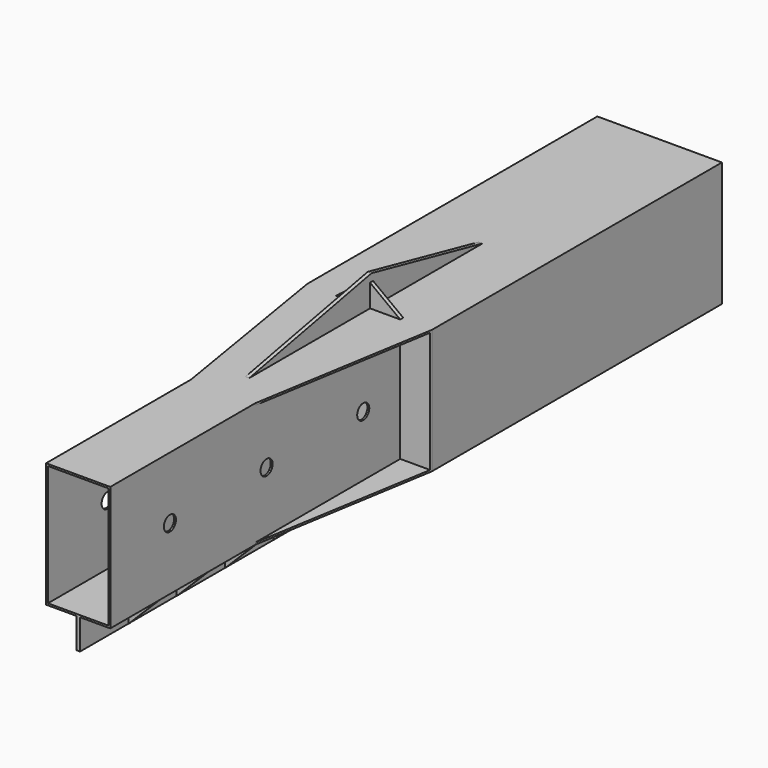
from build123d import *

# Parameters (mm, degrees)
F0_W           = 104.775
F0_H           = 104.775
F0_W_2         = 101.6
F0_H_2         = 101.6
F1_DEPTH       = 1.5875
F3_DEPTH       = 304.8
F5_DEPTH       = 304.8
F6_W           = 152.4
F6_H           = 1.5875
F7_DEPTH       = 25.4
F8_W           = 152.4
F8_H           = 1.5875
F9_DEPTH       = 25.4
F11_DEPTH      = 177.8
F12_W          = 3.175
F12_H          = 611.1875
F13_DEPTH      = 25.4
F14_R          = 6.35
F15_DEPTH      = 213.36
F16_W          = 25.4
F16_H          = 1.5875
F17_DEPTH      = 25.4
F19_DEPTH      = 1828.8
F20_W          = 1.5875
F20_H          = 245.0186535716
F21_DEPTH      = 25.4
F23_DEPTH      = 25.4
F24_W          = 1.5875
F24_H          = 19.05
F25_DEPTH      = 25.4
F25_DEPTH_BACK = 28.575
F27_DEPTH      = 25.4
F29_DEPTH      = 25.4


with BuildPart() as f1:
    # F0 (on Front) → F1 (new body)
    with BuildSketch(Plane.XZ):
        with Locations((-4.1154902428, 8.1752620383)):
            Rectangle(F0_W, F0_H)
        with Locations((-4.1154902428, 8.1752620383)):
            Rectangle(F0_W_2, F0_H_2, mode=Mode.SUBTRACT)
        with Locations((-4.1154902428, 8.1752620383)):
            Rectangle(F0_W_2, F0_H_2)
    extrude(amount=F1_DEPTH)

    # F2 (on face) → F3 (join)
    with BuildSketch(Plane(origin=(0, 0, 0), x_dir=(-1, 0, 0), z_dir=(0, 1, 0))):
        Polygon((-46.6845097572, 58.9752620383), (-48.2720097572, 60.5627620383), (-48.2720097572, -44.2122379617), (56.5029902428, -44.2122379617), (54.9154902428, -42.6247379617), (-46.6845097572, -42.6247379617), align=None)
        Polygon((56.5029902428, 60.5627620383), (-48.2720097572, 60.5627620383), (-46.6845097572, 58.9752620383), (54.9154902428, 58.9752620383), (54.9154902428, -42.6247379617), (56.5029902428, -44.2122379617), align=None)
    extrude(amount=F3_DEPTH)

    # F4 (on face) → F5 (join)
    with BuildSketch(Plane.XZ.offset(1.5875)):
        Polygon((-31.1029902428, 60.5627620383), (-31.1029902428, 35.1627620383), (-29.5154902428, 33.5752620383), (-29.5154902428, 58.9752620383), (21.2845097572, 58.9752620383), (21.2845097572, -17.2247379617), (22.8720097572, -18.8122379617), (22.8720097572, 60.5627620383), align=None)
        Polygon((-29.5154902428, 33.5752620383), (-31.1029902428, 35.1627620383), (-31.1029902428, -44.2122379617), (22.8720097572, -44.2122379617), (22.8720097572, -18.8122379617), (21.2845097572, -17.2247379617), (21.2845097572, -42.6247379617), (-29.5154902428, -42.6247379617), align=None)
    extrude(amount=F5_DEPTH)

    # F6 (on face) → F7 (join)
    with BuildSketch(Plane(origin=(-31.1029902428, 0, 0), x_dir=(0, -1, 0), z_dir=(-1, 0, 0))):
        with Locations((77.7875, 59.7690120383)):
            Rectangle(F6_W, F6_H)
        with Locations((77.7875, -43.4184879617)):
            Rectangle(F6_W, F6_H)
    extrude(amount=F7_DEPTH)

    # F8 (on face) → F9 (join)
    with BuildSketch(Plane.YZ.offset(22.8720097572)):
        with Locations((-77.7875, 59.7690120383)):
            Rectangle(F8_W, F8_H)
        with Locations((-77.7875, -43.4184879617)):
            Rectangle(F8_W, F8_H)
    extrude(amount=F9_DEPTH)

    # F10 (on face) → F11 (cut)
    with BuildSketch(Plane.XY.offset(60.5627620383)):
        Polygon((-31.1029902428, -153.9875), (-56.5029902428, 0), (-56.5029902428, -153.9875), align=None)
        Polygon((48.2720097572, -153.9875), (48.2720097572, 0), (22.8720097572, -153.9875), align=None)
    extrude(amount=-F11_DEPTH, mode=Mode.SUBTRACT)

    # F12 (on face) → F13 (join)
    with BuildSketch(Plane(origin=(0, 0, -44.2122379617), x_dir=(1, 0, 0), z_dir=(0, 0, -1))):
        with Locations((-4.1154902428, 0.79375)):
            Rectangle(F12_W, F12_H)
    extrude(amount=F13_DEPTH)

    # F14 (on face) → F15 (cut)
    with BuildSketch(Plane(origin=(-31.1029902428, 0, 0), x_dir=(0, -1, 0), z_dir=(-1, 0, 0))):
        with Locations((40.4604896903, 8.1752620383)):
            Circle(F14_R)
        with Locations((142.0604896903, 8.1752620383)):
            Circle(F14_R)
        with Locations((243.6604896903, 8.1752620383)):
            Circle(F14_R)
    extrude(amount=-F15_DEPTH, mode=Mode.SUBTRACT)

    # F16 (on face) → F17 (join)
    with BuildSketch(Plane(origin=(0, 0, -44.2122379617), x_dir=(1, 0, 0), z_dir=(0, 0, -1))):
        with Locations((10.1720097572, -304.00625)):
            Rectangle(F16_W, F16_H)
        with Locations((10.1720097572, -253.20625)):
            Rectangle(F16_W, F16_H)
        with Locations((10.1720097572, -202.40625)):
            Rectangle(F16_W, F16_H)
        with Locations((10.1720097572, -151.60625)):
            Rectangle(F16_W, F16_H)
        with Locations((10.1720097572, -100.80625)):
            Rectangle(F16_W, F16_H)
        with Locations((10.1720097572, -50.00625)):
            Rectangle(F16_W, F16_H)
        with Locations((10.1720097572, 0.79375)):
            Rectangle(F16_W, F16_H)
        with Locations((10.1720097572, 102.39375)):
            Rectangle(F16_W, F16_H)
        with Locations((10.1720097572, 51.59375)):
            Rectangle(F16_W, F16_H)
        with Locations((10.1720097572, 153.19375)):
            Rectangle(F16_W, F16_H)
        with Locations((10.1720097572, 203.99375)):
            Rectangle(F16_W, F16_H)
        with Locations((10.1720097572, 254.79375)):
            Rectangle(F16_W, F16_H)
    extrude(amount=F17_DEPTH)

    # F18 (on face) → F19 (cut)
    with BuildSketch(Plane(origin=(0, 304.8, 0), x_dir=(-1, 0, 0), z_dir=(0, 1, 0))):
        Polygon((-22.8720097572, -69.6122379617), (2.3494476918, -69.6122379617), (-22.8720097572, -44.2122379617), align=None)
    extrude(amount=-F19_DEPTH, mode=Mode.SUBTRACT)

    # F20 (on face) → F21 (join)
    with BuildSketch(Plane.XY.offset(60.5627620383)):
        with Locations((-4.9092402428, -5.9108771384)):
            Rectangle(F20_W, F20_H)
        with Locations((-3.3217402428, -5.9108771384)):
            Rectangle(F20_W, F20_H)
    extrude(amount=F21_DEPTH)

    # F22 (on face) → F23 (cut)
    with BuildSketch(Plane(origin=(-5.7029902428, 0, 0), x_dir=(0, -1, 0), z_dir=(-1, 0, 0))):
        Polygon((-116.5984496474, 85.9627620383), (-116.5984496474, 60.5627620383), (0, 85.9627620383), align=None)
        Polygon((128.4202039242, 85.9627620383), (0, 85.9627620383), (128.4202039242, 60.5627620383), align=None)
    extrude(amount=-F23_DEPTH, mode=Mode.SUBTRACT)

    # F24 (on face) → F25 (join, two sides)
    with BuildSketch(Plane(origin=(-5.7029902428, 0, 0), x_dir=(0, -1, 0), z_dir=(-1, 0, 0))) as f25_sk:
        with Locations((-0.79375, 70.0877620383)):
            Rectangle(F24_W, F24_H)
        with Locations((0.79375, 70.0877620383)):
            Rectangle(F24_W, F24_H)
    extrude(amount=F25_DEPTH)
    extrude(f25_sk.sketch, amount=-F25_DEPTH_BACK)

    # F26 (on face) → F27 (cut)
    with BuildSketch(Plane.XZ.offset(1.5875)):
        Polygon((-31.1029902428, 60.5627620383), (-5.7029902428, 79.6127620383), (-31.1029902428, 79.6127620383), align=None)
    extrude(amount=-F27_DEPTH, mode=Mode.SUBTRACT)

    # F28 (on face) → F29 (cut)
    with BuildSketch(Plane.XZ.offset(1.5875)):
        Polygon((22.8720097572, 79.6127620383), (-2.5279902428, 79.6127620383), (22.8720097572, 60.5627620383), align=None)
    extrude(amount=-F29_DEPTH, mode=Mode.SUBTRACT)


solid = f1.part
